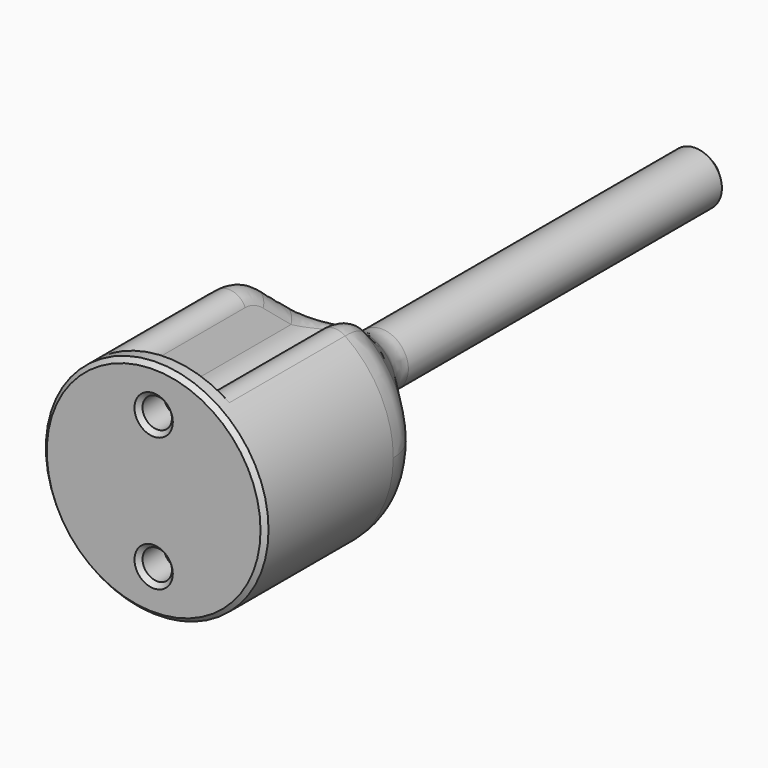
from build123d import *

# Parameters (mm, degrees)
SKETCH001_R     = 1.65
POCKET_DEPTH    = 77.001
POCKET001_DEPTH = 73.001
CHAMFER_SIZE    = 0.5
CHAMFER001_SIZE = 2.25
FILLET_R        = 5
FILLET001_R     = 2
CHAMFER002_SIZE = 1


with BuildPart() as part:
    # Sketch → Revolution (revolve)
    with BuildSketch(Plane.XY):
        Polygon((0, 0), (12.5, 0), (12.5, 20), (3, 30), (3, 77), (0, 77), align=None)
    revolve(axis=Axis((0, 0, 0), (0, 1, 0)))

    # Sketch001 (on Face1 of Revolution) → Pocket (cut, through all)
    with BuildSketch(Plane.XZ):
        with Locations((0, 7.5)):
            Circle(SKETCH001_R)
        with Locations((0, -7.5)):
            Circle(SKETCH001_R)
    extrude(amount=-POCKET_DEPTH, mode=Mode.SUBTRACT)

    # Sketch002 (on Plane) → Pocket001 (cut, through all)
    with BuildSketch(Plane.ZX.offset(4)):
        with BuildLine():
            ThreePointArc((6.3, 2.749545), (4.5, 0), (6.3, -2.749545))
            Line((6.3, -2.749545), (11.456439, -5))
            ThreePointArc((11.456439, -5), (12.5, 0), (11.456439, 5))
            Line((6.3, 2.749545), (11.456439, 5))
        make_face()
        with BuildLine():
            ThreePointArc((-6.3, -2.749545), (-4.5, 0), (-6.3, 2.749545))
            Line((-6.3, 2.749545), (-11.456439, 5))
            ThreePointArc((-11.456439, 5), (-12.5, 0), (-11.456439, -5))
            Line((-6.3, -2.749545), (-11.456439, -5))
        make_face()
    extrude(amount=POCKET001_DEPTH, mode=Mode.SUBTRACT)

    # Chamfer
    chamfer_edges = [part.edges().sort_by_distance(p)[0] for p in [
        (-12.5, 0, 0),
        (-1.65, 0, -7.5),
        (-1.65, 0, 7.5),
        (-1.65, 4, -7.5),
        (-1.65, 4, 7.5),
    ]]
    chamfer(chamfer_edges, length=CHAMFER_SIZE)

    # Chamfer001
    chamfer001_edges = [part.edges().sort_by_distance(p)[0] for p in [
        (0, 4, 12.5),
        (0, 4, -12.5),
    ]]
    chamfer(chamfer001_edges, length=CHAMFER001_SIZE)

    # Fillet
    fillet_edges = [part.edges().sort_by_distance(p)[0] for p in [
        (10.45825, 20, -6.846532),
        (-12.5, 20, 0),
        (10.45825, 20, 6.846532),
        (-3, 30, 0),
    ]]
    fillet(fillet_edges, radius=FILLET_R)

    # Fillet001
    fillet001_edges = [part.edges().sort_by_distance(p)[0] for p in [
        (0, 28.421053, 4.5),
        (1.795213, 27.470151, -5.096418),
        (-1.795213, 27.470151, -5.096418),
    ]]
    fillet(fillet001_edges, radius=FILLET001_R)

    # Chamfer002
    chamfer002_edges = [part.edges().sort_by_distance(p)[0] for p in [
        (-3, 77, 0),
    ]]
    chamfer(chamfer002_edges, length=CHAMFER002_SIZE)


solid = part.part
